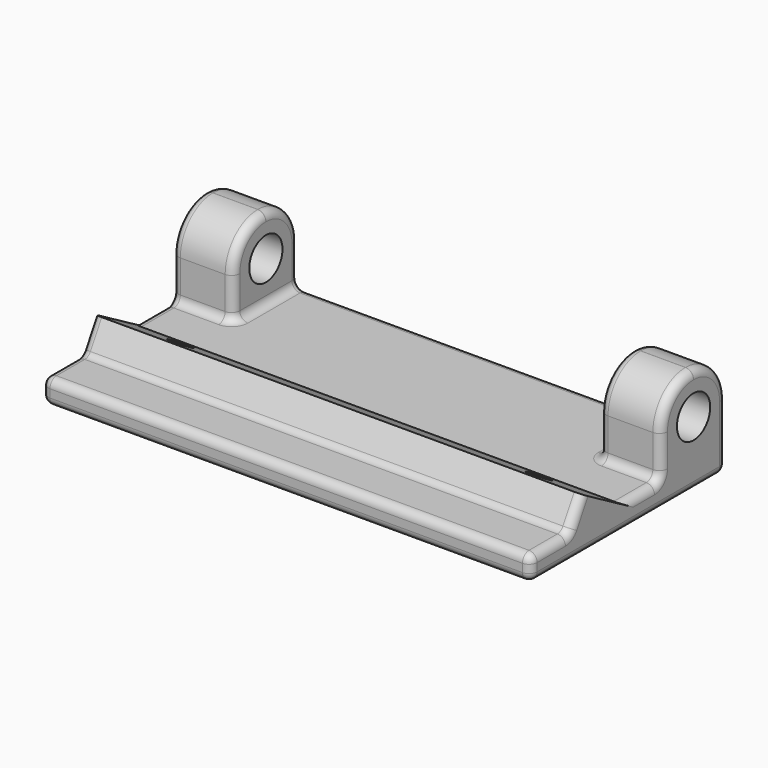
from build123d import *

# Parameters (mm, degrees)
PAD_DEPTH       = 60
SKETCH001_W     = 10
SKETCH001_H     = 7.5
PAD001_DEPTH    = 10
SKETCH002_R     = 2.55
POCKET_DEPTH    = 60
FILLET_R        = 4.99
FILLET001_R     = 1
SKETCH003_R     = 1.4
POCKET001_DEPTH = 7


with BuildPart() as part:
    # Sketch → Pad (new body)
    with BuildSketch(Plane.YZ):
        with BuildLine():
            Line((0, 0), (30, 0))
            Line((30, 0), (30, 3))
            Line((30, 3), (14, 3))
            Line((14, 3), (7.9378221735, 6.5))
            Line((6.205771366, 3.5), (7.9378221735, 6.5))
            ThreePointArc((5.3397459622, 3), (5.8397459622, 3.1339745962), (6.205771366, 3.5))
            Line((0, 3), (5.3397459622, 3))
            Line((0, 0), (0, 3))
        make_face()
    extrude(amount=PAD_DEPTH)

    # Sketch001 (on Face3 of Pad) → Pad001 (join)
    with BuildSketch(Plane(origin=(0, 0, 3), x_dir=(0, -1, 0), z_dir=(0, 0, 1))):
        with Locations((-25, 3.75)):
            Rectangle(SKETCH001_W, SKETCH001_H)
        with Locations((-25, 56.25)):
            Rectangle(SKETCH001_W, SKETCH001_H)
    extrude(amount=PAD001_DEPTH)

    # Sketch002 (on Face15 of Pad001) → Pocket (cut)
    with BuildSketch(Plane(origin=(0, 0, 0), x_dir=(0, 1, 0), z_dir=(-1, 0, 0))):
        with Locations((25, -8)):
            Circle(SKETCH002_R)
    extrude(amount=-POCKET_DEPTH, mode=Mode.SUBTRACT)

    # Fillet
    fillet_edges = [part.edges().sort_by_distance(p)[0] for p in [
        (56.25, 30, 13),
        (56.25, 20, 13),
        (3.75, 30, 13),
        (3.75, 20, 13),
    ]]
    fillet(fillet_edges, radius=FILLET_R)

    # Fillet001
    fillet001_edges = [part.edges().sort_by_distance(p)[0] for p in [
        (7.5, 30, 5.505),
        (0, 30, 4.005),
        (52.5, 30, 5.505),
        (60, 30, 4.005),
        (30, 30, 3),
        (30, 30, 0),
        (60, 15, 0),
        (60, 17, 3),
        (0, 17, 3),
        (0, 15, 0),
        (30, 0, 3),
        (60, 2.669873, 3),
        (0, 2.669873, 3),
        (30, 0, 0),
        (0, 0, 1.5),
        (60, 0, 1.5),
        (52.5, 25, 3),
        (7.5, 25, 3),
        (3.75, 20, 3),
        (56.25, 20, 3),
    ]]
    fillet(fillet001_edges, radius=FILLET001_R)

    # Sketch003 (on Face17 of Fillet) → Pocket001 (cut)
    with BuildSketch(Plane(origin=(0, 4.7990381057, 8.3121778265), x_dir=(0, -0.8660254038, 0.5), z_dir=(0, 0.5, 0.8660254038))):
        with Locations((-7.5, 52)):
            Circle(SKETCH003_R)
        with Locations((-7.5, 8)):
            Circle(SKETCH003_R)
    extrude(amount=-POCKET001_DEPTH, mode=Mode.SUBTRACT)


solid = part.part
